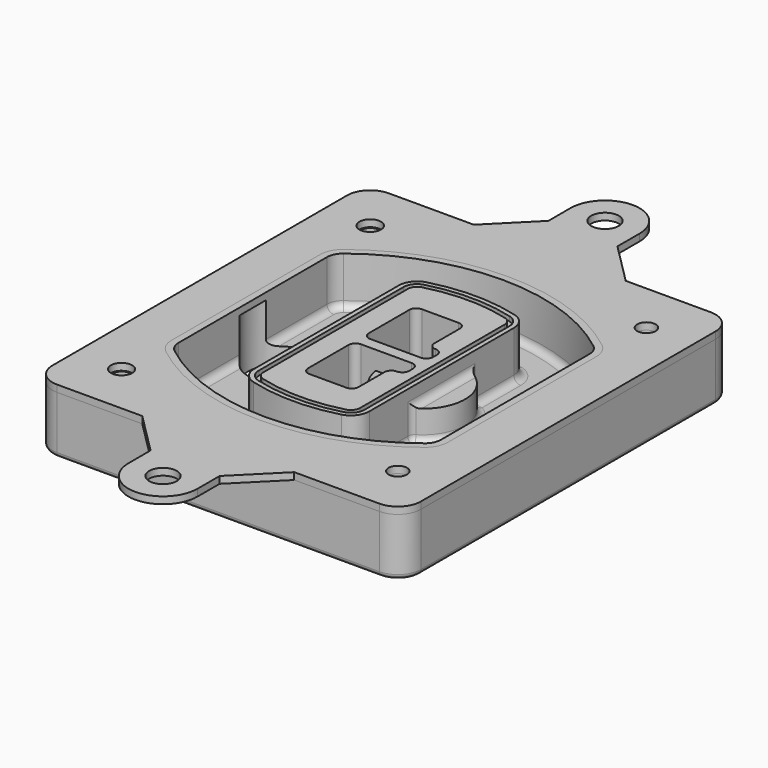
from build123d import *

# Parameters (mm, degrees)
F0_R      = 4
F1_DEPTH  = 25
F2_DEPTH  = 3
F3_DEPTH  = 18
F5_DEPTH  = 21
F6_DEPTH  = 2
F8_DEPTH  = 20
F9_DEPTH  = 16
F10_DEPTH = 25
F7_R      = 6
F7_R_2    = 4
F11_DEPTH = 6
F13_DEPTH = 9
F14_R     = 3
F15_R     = 2
F16_R     = 4.6100055485
F16_R_2   = 4
F16_R_3   = 4.675209494
F16_R_4   = 6
F17_DEPTH = 3


with BuildPart() as f1:
    # F0 (on Top) → F1 (new body)
    with BuildSketch(Plane.XY):
        with BuildLine():
            ThreePointArc((-80, -80), (-77.0710678119, -87.0710678119), (-70, -90))
            Line((-70, -90), (70, -90))
            ThreePointArc((70, -90), (77.0710678119, -87.0710678119), (80, -80))
            Line((80, -80), (80, 80))
            ThreePointArc((80, 80), (77.0710678119, 87.0710678119), (70, 90))
            Line((70, 90), (-70, 90))
            ThreePointArc((-70, 90), (-77.0710678119, 87.0710678119), (-80, 80))
            Line((-80, 80), (-80, -80))
        make_face()
        with Locations((-60, -67.5)):
            Circle(F0_R, mode=Mode.SUBTRACT)
        with Locations((60, -67.5)):
            Circle(F0_R, mode=Mode.SUBTRACT)
        with Locations((-60, 67.5)):
            Circle(F0_R, mode=Mode.SUBTRACT)
        with BuildLine():
            ThreePointArc((-64, 40.2934422872), (-62.5820384798, 46.4328484224), (-58.6153846154, 51.3286200352))
            ThreePointArc((-58.6153846154, 51.3286200352), (0, 71.5), (58.6153846154, 51.3286200352))
            ThreePointArc((58.6153846154, 51.3286200352), (62.5820384798, 46.4328484224), (64, 40.2934422872))
            Line((64, 40.2934422872), (64, -40.2934422872))
            ThreePointArc((64, -40.2934422872), (62.5820384798, -46.4328484224), (58.6153846154, -51.3286200352))
            ThreePointArc((58.6153846154, -51.3286200352), (0, -71.5), (-58.6153846154, -51.3286200352))
            ThreePointArc((-58.6153846154, -51.3286200352), (-62.5820384798, -46.4328484224), (-64, -40.2934422872))
            Line((-64, -40.2934422872), (-64, 40.2934422872))
        make_face(mode=Mode.SUBTRACT)
        with Locations((60, 67.5)):
            Circle(F0_R, mode=Mode.SUBTRACT)
        with BuildLine():
            ThreePointArc((58.6153846154, 51.3286200352), (0, 71.5), (-58.6153846154, 51.3286200352))
            ThreePointArc((-58.6153846154, 51.3286200352), (-62.5820384798, 46.4328484224), (-64, 40.2934422872))
            Line((-64, 40.2934422872), (-64, -40.2934422872))
            ThreePointArc((-64, -40.2934422872), (-62.5820384798, -46.4328484224), (-58.6153846154, -51.3286200352))
            ThreePointArc((-58.6153846154, -51.3286200352), (0, -71.5), (58.6153846154, -51.3286200352))
            ThreePointArc((58.6153846154, -51.3286200352), (62.5820384798, -46.4328484224), (64, -40.2934422872))
            Line((64, -40.2934422872), (64, 40.2934422872))
            ThreePointArc((64, 40.2934422872), (62.5820384798, 46.4328484224), (58.6153846154, 51.3286200352))
        make_face()
        with BuildLine():
            Line((-60, -40.2934422872), (-60, 40.2934422872))
            ThreePointArc((-60, 40.2934422872), (-58.9871703427, 44.6787323838), (-56.1538461538, 48.1757121072))
            ThreePointArc((-56.1538461538, 48.1757121072), (0, 67.5), (56.1538461538, 48.1757121072))
            ThreePointArc((56.1538461538, 48.1757121072), (58.9871703427, 44.6787323838), (60, 40.2934422872))
            Line((60, 40.2934422872), (60, -40.2934422872))
            ThreePointArc((60, -40.2934422872), (58.9871703427, -44.6787323838), (56.1538461538, -48.1757121072))
            ThreePointArc((56.1538461538, -48.1757121072), (0, -67.5), (-56.1538461538, -48.1757121072))
            ThreePointArc((-56.1538461538, -48.1757121072), (-58.9871703427, -44.6787323838), (-60, -40.2934422872))
        make_face(mode=Mode.SUBTRACT)
        with BuildLine():
            ThreePointArc((-56.1538461538, 48.1757121072), (-58.9871703427, 44.6787323838), (-60, 40.2934422872))
            Line((-60, 40.2934422872), (-60, -40.2934422872))
            ThreePointArc((-60, -40.2934422872), (-58.9871703427, -44.6787323838), (-56.1538461538, -48.1757121072))
            ThreePointArc((-56.1538461538, -48.1757121072), (0, -67.5), (56.1538461538, -48.1757121072))
            ThreePointArc((56.1538461538, -48.1757121072), (58.9871703427, -44.6787323838), (60, -40.2934422872))
            Line((60, -40.2934422872), (60, 40.2934422872))
            ThreePointArc((60, 40.2934422872), (58.9871703427, 44.6787323838), (56.1538461538, 48.1757121072))
            ThreePointArc((56.1538461538, 48.1757121072), (0, 67.5), (-56.1538461538, 48.1757121072))
        make_face()
        with BuildLine():
            ThreePointArc((54.3076923077, 45.8110311612), (56.2910192399, 43.3631453548), (57, 40.2934422872))
            Line((57, 40.2934422872), (57, -40.2934422872))
            ThreePointArc((57, -40.2934422872), (56.2910192399, -43.3631453548), (54.3076923077, -45.8110311612))
            ThreePointArc((54.3076923077, -45.8110311612), (0, -64.5), (-54.3076923077, -45.8110311612))
            ThreePointArc((-54.3076923077, -45.8110311612), (-56.2910192399, -43.3631453548), (-57, -40.2934422872))
            Line((-57, -40.2934422872), (-57, 40.2934422872))
            ThreePointArc((-57, 40.2934422872), (-56.2910192399, 43.3631453548), (-54.3076923077, 45.8110311612))
            ThreePointArc((-54.3076923077, 45.8110311612), (0, 64.5), (54.3076923077, 45.8110311612))
        make_face(mode=Mode.SUBTRACT)
        with BuildLine():
            Line((57, -40.2934422872), (57, 40.2934422872))
            ThreePointArc((57, 40.2934422872), (56.2910192399, 43.3631453548), (54.3076923077, 45.8110311612))
            ThreePointArc((54.3076923077, 45.8110311612), (0, 64.5), (-54.3076923077, 45.8110311612))
            ThreePointArc((-54.3076923077, 45.8110311612), (-56.2910192399, 43.3631453548), (-57, 40.2934422872))
            Line((-57, 40.2934422872), (-57, -40.2934422872))
            ThreePointArc((-57, -40.2934422872), (-56.2910192399, -43.3631453548), (-54.3076923077, -45.8110311612))
            ThreePointArc((-54.3076923077, -45.8110311612), (0, -64.5), (54.3076923077, -45.8110311612))
            ThreePointArc((54.3076923077, -45.8110311612), (56.2910192399, -43.3631453548), (57, -40.2934422872))
        make_face()
    extrude(amount=-F1_DEPTH)

    # F0 (on Top) → F2 (join)
    with BuildSketch(Plane.XY):
        with BuildLine():
            ThreePointArc((-56.1538461538, 48.1757121072), (-58.9871703427, 44.6787323838), (-60, 40.2934422872))
            Line((-60, 40.2934422872), (-60, -40.2934422872))
            ThreePointArc((-60, -40.2934422872), (-58.9871703427, -44.6787323838), (-56.1538461538, -48.1757121072))
            ThreePointArc((-56.1538461538, -48.1757121072), (0, -67.5), (56.1538461538, -48.1757121072))
            ThreePointArc((56.1538461538, -48.1757121072), (58.9871703427, -44.6787323838), (60, -40.2934422872))
            Line((60, -40.2934422872), (60, 40.2934422872))
            ThreePointArc((60, 40.2934422872), (58.9871703427, 44.6787323838), (56.1538461538, 48.1757121072))
            ThreePointArc((56.1538461538, 48.1757121072), (0, 67.5), (-56.1538461538, 48.1757121072))
        make_face()
        with BuildLine():
            ThreePointArc((54.3076923077, 45.8110311612), (56.2910192399, 43.3631453548), (57, 40.2934422872))
            Line((57, 40.2934422872), (57, -40.2934422872))
            ThreePointArc((57, -40.2934422872), (56.2910192399, -43.3631453548), (54.3076923077, -45.8110311612))
            ThreePointArc((54.3076923077, -45.8110311612), (0, -64.5), (-54.3076923077, -45.8110311612))
            ThreePointArc((-54.3076923077, -45.8110311612), (-56.2910192399, -43.3631453548), (-57, -40.2934422872))
            Line((-57, -40.2934422872), (-57, 40.2934422872))
            ThreePointArc((-57, 40.2934422872), (-56.2910192399, 43.3631453548), (-54.3076923077, 45.8110311612))
            ThreePointArc((-54.3076923077, 45.8110311612), (0, 64.5), (54.3076923077, 45.8110311612))
        make_face(mode=Mode.SUBTRACT)
    extrude(amount=F2_DEPTH)

    # F0 (on Top) → F3 (cut)
    with BuildSketch(Plane.XY):
        with BuildLine():
            Line((57, -40.2934422872), (57, 40.2934422872))
            ThreePointArc((57, 40.2934422872), (56.2910192399, 43.3631453548), (54.3076923077, 45.8110311612))
            ThreePointArc((54.3076923077, 45.8110311612), (0, 64.5), (-54.3076923077, 45.8110311612))
            ThreePointArc((-54.3076923077, 45.8110311612), (-56.2910192399, 43.3631453548), (-57, 40.2934422872))
            Line((-57, 40.2934422872), (-57, -40.2934422872))
            ThreePointArc((-57, -40.2934422872), (-56.2910192399, -43.3631453548), (-54.3076923077, -45.8110311612))
            ThreePointArc((-54.3076923077, -45.8110311612), (0, -64.5), (54.3076923077, -45.8110311612))
            ThreePointArc((54.3076923077, -45.8110311612), (56.2910192399, -43.3631453548), (57, -40.2934422872))
        make_face()
    extrude(amount=-F3_DEPTH, mode=Mode.SUBTRACT)

    # F4 (on face) → F5 (join, through all)
    with BuildSketch(Plane.XY.offset(3)):
        with BuildLine():
            ThreePointArc((-25, -39.2465276821), (-23.3511545998, -44.1109737193), (-19.0842911877, -46.9702398883))
            ThreePointArc((-19.0842911877, -46.9702398883), (0, -49.5), (19.0842911877, -46.9702398883))
            ThreePointArc((19.0842911877, -46.9702398883), (23.3511545998, -44.1109737193), (25, -39.2465276821))
            Line((25, -39.2465276821), (25, 39.2465276821))
            ThreePointArc((25, 39.2465276821), (23.3511545998, 44.1109737193), (19.0842911877, 46.9702398883))
            ThreePointArc((19.0842911877, 46.9702398883), (0, 49.5), (-19.0842911877, 46.9702398883))
            ThreePointArc((-19.0842911877, 46.9702398883), (-23.3511545998, 44.1109737193), (-25, 39.2465276821))
            Line((-25, 39.2465276821), (-25, -39.2465276821))
        make_face()
        with BuildLine():
            ThreePointArc((18.5632183908, 45.0393118368), (21.7633659499, 42.89486221), (23, 39.2465276821))
            Line((23, 39.2465276821), (23, -39.2465276821))
            ThreePointArc((23, -39.2465276821), (21.7633659499, -42.89486221), (18.5632183908, -45.0393118368))
            ThreePointArc((18.5632183908, -45.0393118368), (0, -47.5), (-18.5632183908, -45.0393118368))
            ThreePointArc((-18.5632183908, -45.0393118368), (-21.7633659499, -42.89486221), (-23, -39.2465276821))
            Line((-23, -39.2465276821), (-23, 39.2465276821))
            ThreePointArc((-23, 39.2465276821), (-21.7633659499, 42.89486221), (-18.5632183908, 45.0393118368))
            ThreePointArc((-18.5632183908, 45.0393118368), (0, 47.5), (18.5632183908, 45.0393118368))
        make_face(mode=Mode.SUBTRACT)
        with BuildLine():
            Line((23, -39.2465276821), (23, 39.2465276821))
            ThreePointArc((23, 39.2465276821), (21.7633659499, 42.89486221), (18.5632183908, 45.0393118368))
            ThreePointArc((18.5632183908, 45.0393118368), (0, 47.5), (-18.5632183908, 45.0393118368))
            ThreePointArc((-18.5632183908, 45.0393118368), (-21.7633659499, 42.89486221), (-23, 39.2465276821))
            Line((-23, 39.2465276821), (-23, -39.2465276821))
            ThreePointArc((-23, -39.2465276821), (-21.7633659499, -42.89486221), (-18.5632183908, -45.0393118368))
            ThreePointArc((-18.5632183908, -45.0393118368), (0, -47.5), (18.5632183908, -45.0393118368))
            ThreePointArc((18.5632183908, -45.0393118368), (21.7633659499, -42.89486221), (23, -39.2465276821))
        make_face()
        with BuildLine():
            ThreePointArc((18.0421455939, 43.1083837852), (20.1755772999, 41.6787507007), (21, 39.2465276821))
            Line((21, 39.2465276821), (21, -39.2465276821))
            ThreePointArc((21, -39.2465276821), (20.1755772999, -41.6787507007), (18.0421455939, -43.1083837852))
            ThreePointArc((18.0421455939, -43.1083837852), (0, -45.5), (-18.0421455939, -43.1083837852))
            ThreePointArc((-18.0421455939, -43.1083837852), (-20.1755772999, -41.6787507007), (-21, -39.2465276821))
            Line((-21, -39.2465276821), (-21, 39.2465276821))
            ThreePointArc((-21, 39.2465276821), (-20.1755772999, 41.6787507007), (-18.0421455939, 43.1083837852))
            ThreePointArc((-18.0421455939, 43.1083837852), (0, 45.5), (18.0421455939, 43.1083837852))
        make_face(mode=Mode.SUBTRACT)
        with BuildLine():
            Line((21, -39.2465276821), (21, 39.2465276821))
            ThreePointArc((21, 39.2465276821), (20.1755772999, 41.6787507007), (18.0421455939, 43.1083837852))
            ThreePointArc((18.0421455939, 43.1083837852), (0, 45.5), (-18.0421455939, 43.1083837852))
            ThreePointArc((-18.0421455939, 43.1083837852), (-20.1755772999, 41.6787507007), (-21, 39.2465276821))
            Line((-21, 39.2465276821), (-21, -39.2465276821))
            ThreePointArc((-21, -39.2465276821), (-20.1755772999, -41.6787507007), (-18.0421455939, -43.1083837852))
            ThreePointArc((-18.0421455939, -43.1083837852), (0, -45.5), (18.0421455939, -43.1083837852))
            ThreePointArc((18.0421455939, -43.1083837852), (20.1755772999, -41.6787507007), (21, -39.2465276821))
        make_face()
        with BuildLine():
            Line((-8, -2.5), (14, -2.5))
            ThreePointArc((14, -2.5), (16.1213203436, -3.3786796564), (17, -5.5))
            Line((17, -5.5), (17, -7.5))
            ThreePointArc((17, -7.5), (16.1213203436, -9.6213203436), (14, -10.5))
            ThreePointArc((14, -10.5), (11.8786796564, -11.3786796564), (11, -13.5))
            Line((11, -13.5), (11, -27.5))
            ThreePointArc((11, -27.5), (10.1213203436, -29.6213203436), (8, -30.5))
            Line((8, -30.5), (-8, -30.5))
            ThreePointArc((-8, -30.5), (-10.1213203436, -29.6213203436), (-11, -27.5))
            Line((-11, -27.5), (-11, -5.5))
            ThreePointArc((-11, -5.5), (-10.1213203436, -3.3786796564), (-8, -2.5))
        make_face(mode=Mode.SUBTRACT)
        with BuildLine():
            ThreePointArc((-8, 2.5), (-10.1213203436, 3.3786796564), (-11, 5.5))
            Line((-11, 5.5), (-11, 27.5))
            ThreePointArc((-11, 27.5), (-10.1213203436, 29.6213203436), (-8, 30.5))
            Line((-8, 30.5), (8, 30.5))
            ThreePointArc((8, 30.5), (10.1213203436, 29.6213203436), (11, 27.5))
            Line((11, 27.5), (11, 13.5))
            ThreePointArc((11, 13.5), (11.8786796564, 11.3786796564), (14, 10.5))
            ThreePointArc((14, 10.5), (16.1213203436, 9.6213203436), (17, 7.5))
            Line((17, 7.5), (17, 5.5))
            ThreePointArc((17, 5.5), (16.1213203436, 3.3786796564), (14, 2.5))
            Line((14, 2.5), (-8, 2.5))
        make_face(mode=Mode.SUBTRACT)
    extrude(amount=-F5_DEPTH)

    # F4 (on face) → F6 (cut)
    with BuildSketch(Plane.XY.offset(3)):
        with BuildLine():
            Line((23, -39.2465276821), (23, 39.2465276821))
            ThreePointArc((23, 39.2465276821), (21.7633659499, 42.89486221), (18.5632183908, 45.0393118368))
            ThreePointArc((18.5632183908, 45.0393118368), (0, 47.5), (-18.5632183908, 45.0393118368))
            ThreePointArc((-18.5632183908, 45.0393118368), (-21.7633659499, 42.89486221), (-23, 39.2465276821))
            Line((-23, 39.2465276821), (-23, -39.2465276821))
            ThreePointArc((-23, -39.2465276821), (-21.7633659499, -42.89486221), (-18.5632183908, -45.0393118368))
            ThreePointArc((-18.5632183908, -45.0393118368), (0, -47.5), (18.5632183908, -45.0393118368))
            ThreePointArc((18.5632183908, -45.0393118368), (21.7633659499, -42.89486221), (23, -39.2465276821))
        make_face()
        with BuildLine():
            ThreePointArc((18.0421455939, 43.1083837852), (20.1755772999, 41.6787507007), (21, 39.2465276821))
            Line((21, 39.2465276821), (21, -39.2465276821))
            ThreePointArc((21, -39.2465276821), (20.1755772999, -41.6787507007), (18.0421455939, -43.1083837852))
            ThreePointArc((18.0421455939, -43.1083837852), (0, -45.5), (-18.0421455939, -43.1083837852))
            ThreePointArc((-18.0421455939, -43.1083837852), (-20.1755772999, -41.6787507007), (-21, -39.2465276821))
            Line((-21, -39.2465276821), (-21, 39.2465276821))
            ThreePointArc((-21, 39.2465276821), (-20.1755772999, 41.6787507007), (-18.0421455939, 43.1083837852))
            ThreePointArc((-18.0421455939, 43.1083837852), (0, 45.5), (18.0421455939, 43.1083837852))
        make_face(mode=Mode.SUBTRACT)
    extrude(amount=-F6_DEPTH, mode=Mode.SUBTRACT)

    # F7 (on face) → F8 (join)
    with BuildSketch(Plane(origin=(0, 0, -25), x_dir=(1, 0, 0), z_dir=(0, 0, -1))):
        with BuildLine():
            ThreePointArc((3.28842436, 0), (16.7567035675, 13.4682792075), (30.224982775, 0))
            Line((30.224982775, 0), (35.224982775, 0))
            ThreePointArc((35.224982775, 0), (16.7567035675, 18.4682792075), (-1.71157564, 0))
            Line((-1.71157564, 0), (3.28842436, 0))
        make_face()
        with BuildLine():
            Line((3.28842436, 0), (30.224982775, 0))
            ThreePointArc((30.224982775, 0), (16.7567035675, 13.4682792075), (3.28842436, 0))
        make_face()
        with BuildLine():
            ThreePointArc((3.28842436, 0), (16.7567035675, -13.4682792075), (30.224982775, 0))
            Line((30.224982775, 0), (3.28842436, 0))
        make_face()
        with BuildLine():
            Line((35.224982775, 0), (30.224982775, 0))
            ThreePointArc((30.224982775, 0), (16.7567035675, -13.4682792075), (3.28842436, 0))
            Line((3.28842436, 0), (-1.71157564, 0))
            ThreePointArc((-1.71157564, 0), (16.7567035675, -18.4682792075), (35.224982775, 0))
        make_face()
    extrude(amount=-F8_DEPTH)

    # F7 (on face) → F9 (cut)
    with BuildSketch(Plane(origin=(0, 0, -25), x_dir=(1, 0, 0), z_dir=(0, 0, -1))):
        with BuildLine():
            Line((3.28842436, 0), (30.224982775, 0))
            ThreePointArc((30.224982775, 0), (16.7567035675, 13.4682792075), (3.28842436, 0))
        make_face()
        with BuildLine():
            ThreePointArc((3.28842436, 0), (16.7567035675, -13.4682792075), (30.224982775, 0))
            Line((30.224982775, 0), (3.28842436, 0))
        make_face()
    extrude(amount=-F9_DEPTH, mode=Mode.SUBTRACT)

    # F7 (on face) → F10 (cut)
    with BuildSketch(Plane(origin=(0, 0, -25), x_dir=(1, 0, 0), z_dir=(0, 0, -1))):
        with BuildLine():
            Line((-59.0318229325, 0), (-32.0952645175, 0))
            ThreePointArc((-32.0952645175, 0), (-45.563543725, 13.4682792075), (-59.0318229325, 0))
        make_face()
        with BuildLine():
            ThreePointArc((-59.0318229325, 0), (-45.563543725, -13.4682792075), (-32.0952645175, 0))
            Line((-32.0952645175, 0), (-59.0318229325, 0))
        make_face()
    extrude(amount=-F10_DEPTH, mode=Mode.SUBTRACT)

    # F7 (on face) → F11 (cut)
    with BuildSketch(Plane(origin=(0, 0, -25), x_dir=(1, 0, 0), z_dir=(0, 0, -1))):
        with Locations((60, -67.5)):
            Circle(F7_R)
        with Locations((60, -67.5)):
            Circle(F7_R_2, mode=Mode.SUBTRACT)
        with Locations((60, -67.5)):
            Circle(F7_R)
        with Locations((60, -67.5)):
            Circle(F7_R_2, mode=Mode.SUBTRACT)
        with Locations((-60, -67.5)):
            Circle(F7_R)
        with Locations((-60, -67.5)):
            Circle(F7_R_2, mode=Mode.SUBTRACT)
        with Locations((-60, -67.5)):
            Circle(F7_R)
        with Locations((-60, -67.5)):
            Circle(F7_R_2, mode=Mode.SUBTRACT)
        with Locations((-60, 67.5)):
            Circle(F7_R)
        with Locations((-60, 67.5)):
            Circle(F7_R_2, mode=Mode.SUBTRACT)
        with Locations((-60, 67.5)):
            Circle(F7_R)
        with Locations((-60, 67.5)):
            Circle(F7_R_2, mode=Mode.SUBTRACT)
        with Locations((60, 67.5)):
            Circle(F7_R)
        with Locations((60, 67.5)):
            Circle(F7_R_2, mode=Mode.SUBTRACT)
        with Locations((60, 67.5)):
            Circle(F7_R)
        with Locations((60, 67.5)):
            Circle(F7_R_2, mode=Mode.SUBTRACT)
    extrude(amount=-F11_DEPTH, mode=Mode.SUBTRACT)

    # F12 (on face) → F13 (cut, through all)
    with BuildSketch(Plane(origin=(0, 0, -9), x_dir=(1, 0, 0), z_dir=(0, 0, -1))):
        with BuildLine():
            Line((11, 13.5), (11, 17.5481537753))
            ThreePointArc((11, 17.5481537753), (2.5696536419, 11.8239143813), (-1.5415842455, 2.5))
            Line((-1.5415842455, 2.5), (3.5224848595, 2.5))
            ThreePointArc((3.5224848595, 2.5), (6.1857188154, 8.3455872281), (11.2536447004, 12.2927168648))
            ThreePointArc((11.2536447004, 12.2927168648), (11.0640958889, 12.8831798879), (11, 13.5))
        make_face()
        with BuildLine():
            ThreePointArc((11.2536447004, -12.2927168648), (6.1857188154, -8.3455872281), (3.5224848595, -2.5))
            Line((3.5224848595, -2.5), (-1.5415842455, -2.5))
            ThreePointArc((-1.5415842455, -2.5), (2.5696536419, -11.8239143813), (11, -17.5481537753))
            Line((11, -17.5481537753), (11, -13.5))
            ThreePointArc((11, -13.5), (11.0640958889, -12.8831798879), (11.2536447004, -12.2927168648))
        make_face()
        with BuildLine():
            ThreePointArc((11.2536447004, 12.2927168648), (6.1857188154, 8.3455872281), (3.5224848595, 2.5))
            Line((3.5224848595, 2.5), (14, 2.5))
            ThreePointArc((14, 2.5), (16.1213203436, 3.3786796564), (17, 5.5))
            Line((17, 5.5), (17, 7.5))
            ThreePointArc((17, 7.5), (16.1213203436, 9.6213203436), (14, 10.5))
            ThreePointArc((14, 10.5), (12.3601599782, 10.9878446101), (11.2536447004, 12.2927168648))
        make_face()
        with BuildLine():
            Line((14, -2.5), (3.5224848595, -2.5))
            ThreePointArc((3.5224848595, -2.5), (6.1857188154, -8.3455872281), (11.2536447004, -12.2927168648))
            ThreePointArc((11.2536447004, -12.2927168648), (12.3601599782, -10.9878446101), (14, -10.5))
            ThreePointArc((14, -10.5), (16.1213203436, -9.6213203436), (17, -7.5))
            Line((17, -7.5), (17, -5.5))
            ThreePointArc((17, -5.5), (16.1213203436, -3.3786796564), (14, -2.5))
        make_face()
    extrude(amount=F13_DEPTH, mode=Mode.SUBTRACT)

    # F14
    f14_edges = [f1.edges().sort_by_distance(p)[0] for p in [
        (-57, -23.703476, -18),
        (-57, 23.703476, -18),
        (25, 0, -5),
        (25, 16.526506, -11.5),
        (25, -16.526506, -11.5),
        (25, -27.886517, -18),
        (35.224983, 0, -18),
    ]]
    fillet(f14_edges, radius=F14_R)

    # F15
    f15_edges = [f1.edges().sort_by_distance(p)[0] for p in [
        (0, -90, -25),
    ]]
    fillet(f15_edges, radius=F15_R)


with BuildPart() as f17:
    # F16 (on face) → F17 (new body, through all)
    with BuildSketch(Plane.XY):
        with BuildLine():
            Line((33, 90), (-33, 90))
            Line((-33, 90), (-70, 90))
            ThreePointArc((-70, 90), (-77.0710678119, 87.0710678119), (-80, 80))
            Line((-80, 80), (-80, -80))
            ThreePointArc((-80, -80), (-77.0710678119, -87.0710678119), (-70, -90))
            Line((-70, -90), (-33, -90))
            Line((-33, -90), (33, -90))
            Line((33, -90), (70, -90))
            ThreePointArc((70, -90), (77.0710678119, -87.0710678119), (80, -80))
            Line((80, -80), (80, 80))
            ThreePointArc((80, 80), (77.0710678119, 87.0710678119), (70, 90))
            Line((70, 90), (33, 90))
        make_face()
        with Locations((-60, -67.5)):
            Circle(F16_R, mode=Mode.SUBTRACT)
        with Locations((60, -67.5)):
            Circle(F16_R_2, mode=Mode.SUBTRACT)
        with Locations((-60, 67.5)):
            Circle(F16_R_3, mode=Mode.SUBTRACT)
        with BuildLine():
            ThreePointArc((-60, 40.2934422872), (-58.9871703427, 44.6787323838), (-56.1538461538, 48.1757121072))
            ThreePointArc((-56.1538461538, 48.1757121072), (0, 67.5), (56.1538461538, 48.1757121072))
            ThreePointArc((56.1538461538, 48.1757121072), (58.9871703427, 44.6787323838), (60, 40.2934422872))
            Line((60, 40.2934422872), (60, -40.2934422872))
            ThreePointArc((60, -40.2934422872), (58.9871703427, -44.6787323838), (56.1538461538, -48.1757121072))
            ThreePointArc((56.1538461538, -48.1757121072), (0, -67.5), (-56.1538461538, -48.1757121072))
            ThreePointArc((-56.1538461538, -48.1757121072), (-58.9871703427, -44.6787323838), (-60, -40.2934422872))
            Line((-60, -40.2934422872), (-60, 40.2934422872))
        make_face(mode=Mode.SUBTRACT)
        with Locations((60, 67.5)):
            Circle(F16_R_2, mode=Mode.SUBTRACT)
        with BuildLine():
            Line((-15, 108), (-33, 90))
            Line((-33, 90), (33, 90))
            Line((33, 90), (15, 108))
            Line((15, 108), (15, 120))
            ThreePointArc((15, 120), (0, 135), (-15, 120))
            Line((-15, 120), (-15, 108))
        make_face()
        with Locations((0, 120)):
            Circle(F16_R_4, mode=Mode.SUBTRACT)
        with BuildLine():
            Line((33, -90), (-33, -90))
            Line((-33, -90), (-15, -108))
            Line((-15, -108), (-15, -120))
            ThreePointArc((-15, -120), (0, -135), (15, -120))
            Line((15, -120), (15, -108))
            Line((15, -108), (33, -90))
        make_face()
        with Locations((0, -120)):
            Circle(F16_R_4, mode=Mode.SUBTRACT)
    extrude(amount=F17_DEPTH)


solid = Compound([f1.part, f17.part])
